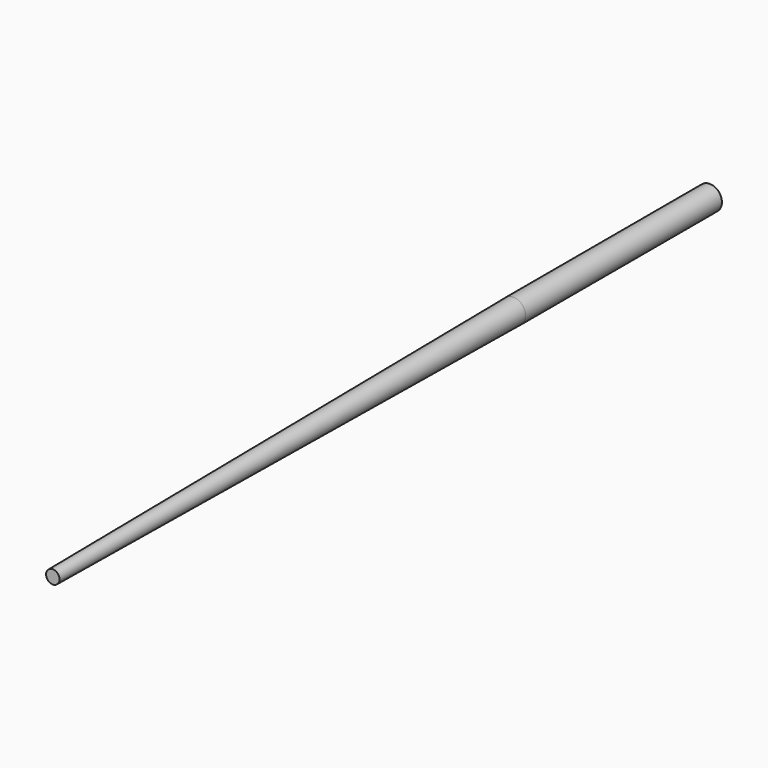
from build123d import *

# Parameters (mm, degrees)
F1_R      = 6.063649
F2_DEPTH  = 121.92
F3_R      = 3.339547
F4_DEPTH  = 286.004
F2_FACE_R = 6.063649
F4_FACE_R = 3.339547


with BuildPart() as f2:
    # F1 (on face) → F2 (new body)
    with BuildSketch(Plane.XZ):
        with Locations((-65.238006, 30.745249)):
            Circle(F1_R)
    extrude(amount=F2_DEPTH)


with BuildPart() as f4:
    # F3 (on face) → F4 (new body)
    with BuildSketch(Plane.XZ.offset(121.92)):
        with Locations((-65.238006, 30.745249)):
            Circle(F3_R)
    extrude(amount=F4_DEPTH)


with BuildPart() as f5:
    # F2_face (on face) → F5 section 0
    with BuildSketch(Plane(origin=(-65.238006, -121.92, 30.745249), x_dir=(1, 0, 0), z_dir=(0, -1, 0))):
        Circle(F2_FACE_R)
    # F4_face (on face) → F5 section 1
    with BuildSketch(Plane(origin=(-65.238006, -407.924, 30.745249), x_dir=(1, 0, 0), z_dir=(0, -1, 0))):
        Circle(F4_FACE_R)
    loft()


solid = Compound([f2.part, f4.part, f5.part])
